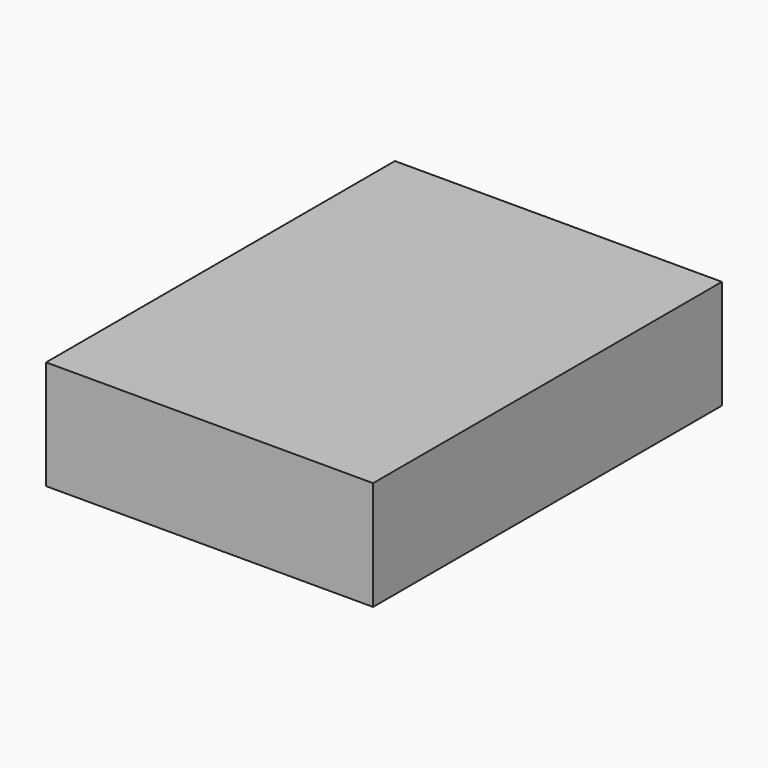
from build123d import *

# Parameters (mm, degrees)
F0_W     = 76.2
F0_H     = 101.6
F2_DEPTH = 25.4
F1_W     = 63.5
F1_H     = 88.9
F3_DEPTH = 19.05
F4_R     = 5.08


with BuildPart() as f2:
    # F0 (on Top) → F2 (new body)
    with BuildSketch(Plane.XY):
        Rectangle(F0_W, F0_H)
    extrude(amount=F2_DEPTH)


with BuildPart() as f3:
    # F1 (on Top) → F3 (new body)
    with BuildSketch(Plane.XY):
        Rectangle(F1_W, F1_H)
    extrude(amount=F3_DEPTH)

    # F4
    f4_edges = [f3.edges().sort_by_distance(p)[0] for p in [
        (0, -44.45, 19.05),
        (31.75, 0, 19.05),
        (0, 44.45, 19.05),
        (-31.75, 0, 19.05),
    ]]
    fillet(f4_edges, radius=F4_R)


solid = Compound([f2.part, f3.part])
